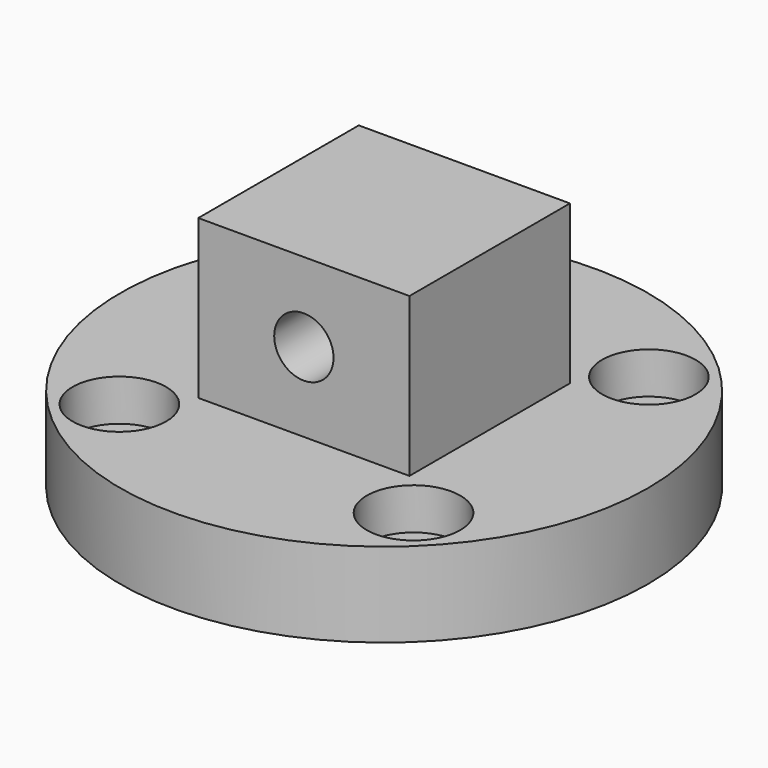
from build123d import *

# Parameters (mm, degrees)
F0_R           = 31.75
F1_DEPTH       = 10.16
F2_W           = 25.4
F2_H           = 24.13
F3_DEPTH       = 19.05
F5_D           = 6.6
F5_CBORE_D     = 11.25
F5_CBORE_DEPTH = 5
F7_D           = 7.1374


with BuildPart() as f1:
    # F0 (on Top) → F1 (new body)
    with BuildSketch(Plane.XY):
        Circle(F0_R)
    extrude(amount=F1_DEPTH)

    # F2 (on face) → F3 (join)
    with BuildSketch(Plane.XY.offset(10.16)):
        Rectangle(F2_W, F2_H)
    extrude(amount=F3_DEPTH)

    # F5 (through all)
    with Locations(Plane.XY.offset(10.16)):
        with Locations((-17.6911045585, 17.6911045585), (17.6911045585, 17.6911045585), (-17.6911045585, -17.6911045585), (17.6911045585, -17.6911045585)):
            CounterBoreHole(F5_D / 2, F5_CBORE_D / 2, F5_CBORE_DEPTH)

    # F7 (through all)
    with Locations(Plane.XZ.offset(12.065)):
        with Locations((0, 19.685)):
            Hole(F7_D / 2)


solid = f1.part
